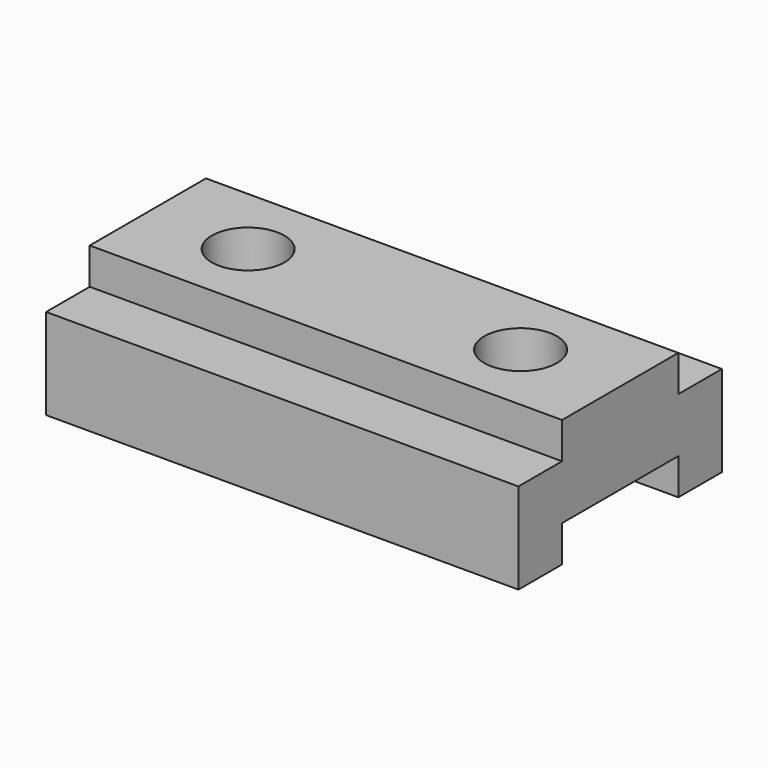
from build123d import *

# Parameters (mm, degrees)
F1_DEPTH = 165.1
F3_D     = 25.4
F3_DEPTH = 25.4
F3_TIP   = 7.6309298617


with BuildPart() as f1:
    # F0 (on Right) → F1 (new body)
    with BuildSketch(Plane.YZ):
        Polygon((0, 31.75), (0, 0), (19.05, 0), (19.05, 12.7), (19.05, 31.75), align=None)
        Polygon((19.05, 31.75), (19.05, 12.7), (69.85, 12.7), (69.85, 31.75), (69.85, 44.45), (19.05, 44.45), align=None)
        Polygon((69.85, 12.7), (69.85, 0), (88.9, 0), (88.9, 31.75), (69.85, 31.75), align=None)
    extrude(amount=F1_DEPTH)

    # F3
    with Locations(Plane.XY.offset(44.45)):
        with Locations((130.302, 44.45), (35.052, 44.45)):
            Hole(F3_D / 2, depth=F3_DEPTH)
            with Locations((0, 0, -(F3_DEPTH + F3_TIP / 2))):  # 118° drill point
                Cone(0, F3_D / 2, F3_TIP, mode=Mode.SUBTRACT)


solid = f1.part
